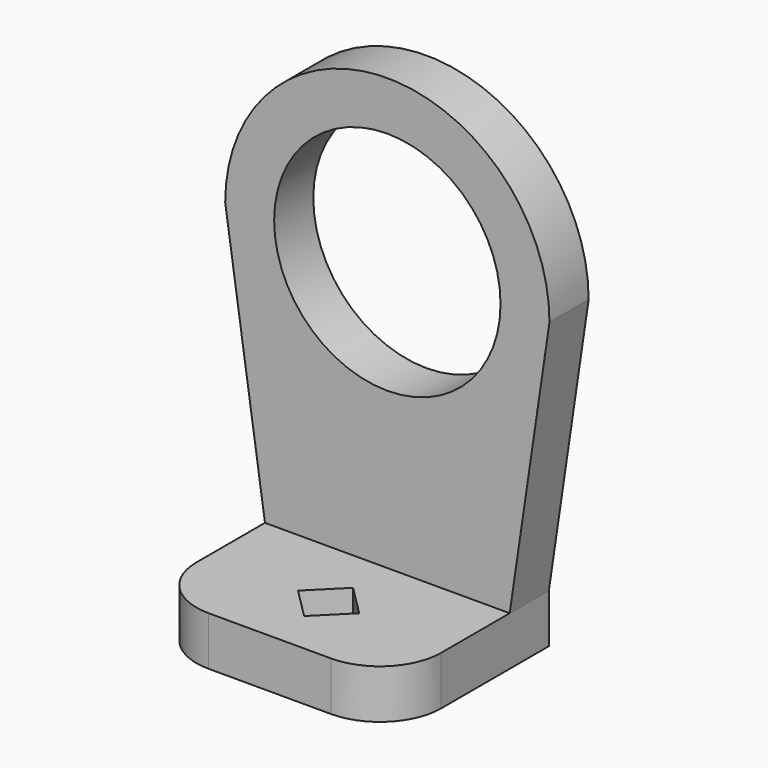
from build123d import *

# Parameters (mm, degrees)
F1_DEPTH = 16
F0_R     = 9.25
F2_DEPTH = 4
F4_R     = 5
F5_DEPTH = 4


with BuildPart() as f1:
    # F0 (on Front) → F1 (new body)
    with BuildSketch(Plane.XZ):
        Polygon((-10, 0), (0, 0), (10, 0), (10, 4), (0, 4), (-10, 4), align=None)
    extrude(amount=F1_DEPTH)

    # F0 (on Front) → F2 (join)
    with BuildSketch(Plane.XZ):
        with BuildLine():
            Line((-13.25, 26), (-10, 4))
            Line((-10, 4), (0, 4))
            Line((0, 4), (10, 4))
            Line((10, 4), (13.25, 26))
            ThreePointArc((13.25, 26), (0, 39.25), (-13.25, 26))
        make_face()
        with Locations((0, 26)):
            Circle(F0_R, mode=Mode.SUBTRACT)
    extrude(amount=F2_DEPTH)

    # F4
    f4_edges = [f1.edges().sort_by_distance(p)[0] for p in [
        (-10, -16, 2),
        (10, -16, 2),
    ]]
    fillet(f4_edges, radius=F4_R)

    # F3 (on face) → F5 (cut)
    with BuildSketch(Plane.XY.offset(4)):
        Polygon((-2.5, -10), (0, -10), (0, -7.5), align=None)
        Polygon((0, -12.5), (0, -10), (-2.5, -10), align=None)
        Polygon((2.5, -10), (0, -10), (0, -12.5), align=None)
        Polygon((0, -7.5), (0, -10), (2.5, -10), align=None)
    extrude(amount=-F5_DEPTH, mode=Mode.SUBTRACT)


solid = f1.part
